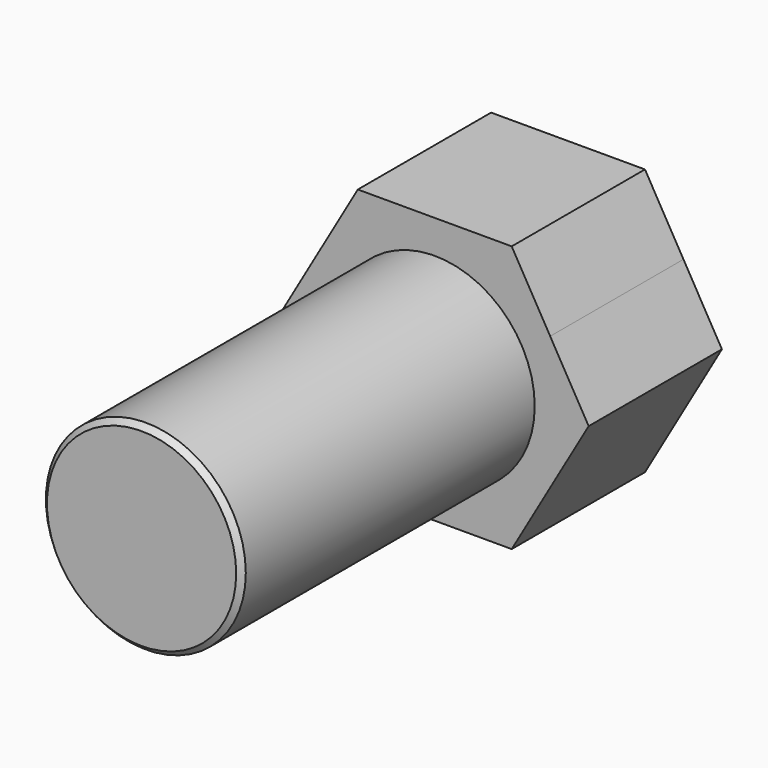
from build123d import *

# Parameters (mm, degrees)
F0_R     = 4.7625
F1_DEPTH = 25.4
F3_DEPTH = 7.9375
F4_SIZE  = 0.254


with BuildPart() as f1:
    # F0 (on Front) → F1 (new body)
    with BuildSketch(Plane.XZ):
        Circle(F0_R)
    extrude(amount=F1_DEPTH)

    # F2 (on Front) → F3 (join)
    with BuildSketch(Plane.XZ):
        with BuildLine():
            ThreePointArc((-5.4992613166, 3.1749999956), (-3.1750000022, 5.4992613128), (0, 6.35))
            Line((0, 6.35), (-3.6661742094, 6.35))
            Line((-3.6661742094, 6.35), (-5.4992613166, 3.1749999956))
        make_face()
        with BuildLine():
            ThreePointArc((-5.499261351, -3.174999936), (-6.35, 3.44e-08), (-5.4992613166, 3.1749999956))
            Line((-5.4992613166, 3.1749999956), (-7.3323484187, 0))
            Line((-7.3323484187, 0), (-5.499261351, -3.174999936))
        make_face()
        with BuildLine():
            Line((-3.6661742094, -6.35), (0, -6.35))
            ThreePointArc((0, -6.35), (-3.175000032, -5.4992612955), (-5.499261351, -3.174999936))
            Line((-5.499261351, -3.174999936), (-3.6661742094, -6.35))
        make_face()
        with BuildLine():
            ThreePointArc((0, 6.35), (3.174999954, 5.4992613406), (5.4992612609, 3.175000092))
            Line((5.4992612609, 3.175000092), (3.6661742094, 6.35))
            Line((3.6661742094, 6.35), (0, 6.35))
        make_face()
        with BuildLine():
            ThreePointArc((5.4992612609, 3.175000092), (6.1336289832, 1.6435009877), (6.35, 0))
            ThreePointArc((6.35, 0), (6.1336290065, -1.6435009007), (5.499261351, -3.174999936))
            Line((5.499261351, -3.174999936), (7.3323484187, 0))
            Line((7.3323484187, 0), (5.4992612609, 3.175000092))
        make_face()
        with BuildLine():
            Line((3.6661742094, -6.35), (5.499261351, -3.174999936))
            ThreePointArc((5.499261351, -3.174999936), (3.175000032, -5.4992612955), (0, -6.35))
            Line((0, -6.35), (3.6661742094, -6.35))
        make_face()
        with BuildLine():
            ThreePointArc((5.499261351, -3.174999936), (6.1336290065, -1.6435009007), (6.35, 0))
            ThreePointArc((6.35, 0), (6.1336289832, 1.6435009877), (5.4992612609, 3.175000092))
            ThreePointArc((5.4992612609, 3.175000092), (3.174999954, 5.4992613406), (0, 6.35))
            ThreePointArc((0, 6.35), (-3.1750000022, 5.4992613128), (-5.4992613166, 3.1749999956))
            ThreePointArc((-5.4992613166, 3.1749999956), (-6.35, 3.44e-08), (-5.499261351, -3.174999936))
            ThreePointArc((-5.499261351, -3.174999936), (-3.175000032, -5.4992612955), (0, -6.35))
            ThreePointArc((0, -6.35), (3.175000032, -5.4992612955), (5.499261351, -3.174999936))
        make_face()
    extrude(amount=F3_DEPTH)

    # F4
    f4_edges = [f1.edges().sort_by_distance(p)[0] for p in [
        (-4.7625, -25.4, 0),
    ]]
    chamfer(f4_edges, length=F4_SIZE)


solid = f1.part
